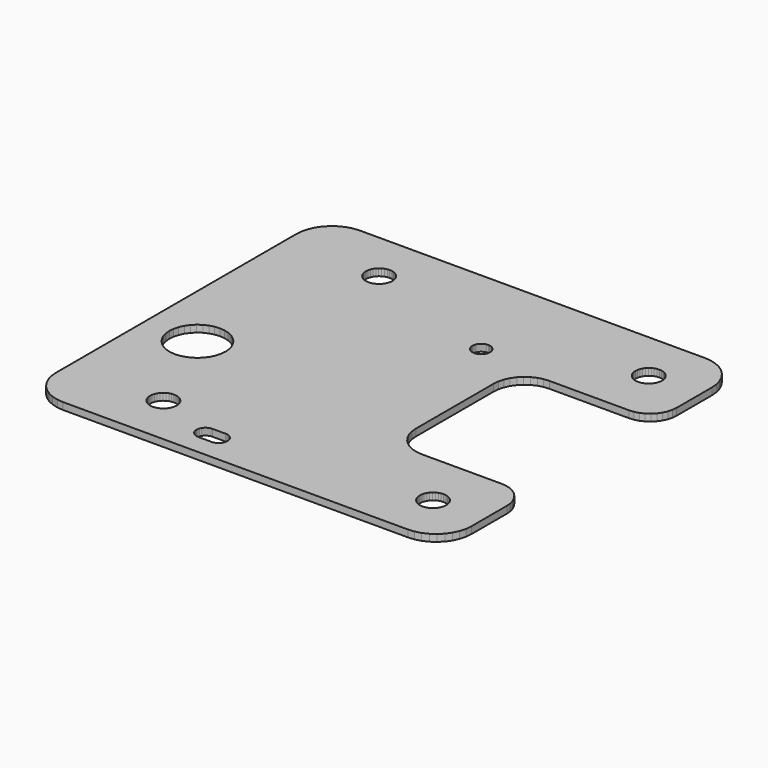
from build123d import *

# Parameters (mm, degrees)
F1_DEPTH = 2


with BuildPart() as f1:
    # F0 (on Top) → F1 (new body)
    with BuildSketch(Plane.XY):
        Polygon((59.077276, 46.654923), (58.328814, 48.26), (57.313017, 49.710721), (56.060721, 50.963017), (54.61, 51.978814), (53.004923, 52.727276), (51.294259, 53.185644), (49.53, 53.34), (48.5394, 53.34), (-49.53, 53.34), (-51.294259, 53.185644), (-53.004923, 52.727276), (-54.61, 51.978814), (-56.060721, 50.963017), (-57.313017, 49.710721), (-58.328814, 48.26), (-59.077276, 46.654923), (-59.535644, 44.944259), (-59.69, 43.18), (-59.69, 42.3164), (-59.69, -43.18), (-59.535644, -44.944259), (-59.077276, -46.654923), (-58.328814, -48.26), (-57.313017, -49.710721), (-56.060721, -50.963017), (-54.61, -51.978814), (-53.004923, -52.727276), (-51.294259, -53.185644), (-49.53, -53.34), (-48.5394, -53.34), (49.53, -53.34), (51.294259, -53.185644), (53.004923, -52.727276), (54.61, -51.978814), (56.060721, -50.963017), (57.313017, -49.710721), (58.328814, -48.26), (59.077276, -46.654923), (59.535644, -44.944259), (59.69, -43.18), (59.69, -30.607), (59.69, -30.48), (59.574227, -29.156812), (59.230463, -27.873808), (58.669123, -26.67), (57.90725, -25.581966), (56.968034, -24.64275), (55.88, -23.880877), (54.676192, -23.319537), (53.393188, -22.975773), (52.07, -22.86), (29.4386, -22.86), (29.21, -22.86), (27.666264, -22.724948), (26.169442, -22.323857), (24.765, -21.668969), (23.49561, -20.780146), (22.399854, -19.68439), (21.511031, -18.415), (20.856143, -17.010558), (20.455052, -15.513736), (20.32, -13.97), (20.32, 13.6906), (20.32, 13.97), (20.455052, 15.513736), (20.856143, 17.010558), (21.511031, 18.415), (22.399854, 19.68439), (23.49561, 20.780121), (24.765, 21.668969), (26.169442, 22.323857), (27.666264, 22.724948), (29.21, 22.86), (51.8414, 22.86), (52.07, 22.86), (53.393188, 22.975773), (54.676192, 23.319537), (55.88, 23.880877), (56.968034, 24.64275), (57.90725, 25.581966), (58.669123, 26.67), (59.230463, 27.873808), (59.574227, 29.156812), (59.69, 30.48), (59.69, 43.053), (59.69, 43.18), (59.535644, 44.944259), align=None)
        Polygon((-34.828582, -41.657448), (-35.298939, -41.188716), (-35.680752, -40.645436), (-35.962412, -40.044116), (-36.135386, -39.40302), (-36.194416, -38.741604), (-36.137698, -38.08001), (-35.966959, -37.43833), (-35.687356, -36.83602), (-35.307448, -36.291418), (-34.838716, -35.821061), (-34.295436, -35.439248), (-33.694116, -35.157588), (-33.05302, -34.984614), (-32.391629, -34.925584), (-31.73001, -34.982302), (-31.08833, -35.153041), (-30.48602, -35.432644), (-29.941418, -35.812552), (-29.471061, -36.281284), (-29.089248, -36.824564), (-28.807588, -37.425884), (-28.634588, -38.06698), (-28.575584, -38.728396), (-28.632302, -39.38999), (-28.803041, -40.03167), (-29.082644, -40.63398), (-29.462552, -41.178582), (-29.931284, -41.648939), (-30.474564, -42.030752), (-31.075884, -42.312412), (-31.71698, -42.485412), (-32.378396, -42.544416), (-33.03999, -42.487698), (-33.68167, -42.316959), (-34.28398, -42.037356), align=None, mode=Mode.SUBTRACT)
        Polygon((-17.439716, -43.815), (-17.185767, -43.452313), (-16.872687, -43.139258), (-16.51, -42.885284), (-16.108731, -42.698187), (-15.681071, -42.583583), (-15.24, -42.545), (-11.4681, -42.545), (-11.43, -42.545), (-10.988929, -42.583583), (-10.561269, -42.698187), (-10.16, -42.885284), (-9.797313, -43.139258), (-9.484233, -43.452313), (-9.230284, -43.815), (-9.043187, -44.216269), (-8.928583, -44.643929), (-8.89, -45.085), (-8.928583, -45.526071), (-9.043187, -45.953731), (-9.230284, -46.355), (-9.484233, -46.717687), (-9.797313, -47.030742), (-10.16, -47.284716), (-10.561269, -47.471813), (-10.988929, -47.586417), (-11.43, -47.625), (-15.2019, -47.625), (-15.24, -47.625), (-15.681071, -47.586417), (-16.108731, -47.471813), (-16.51, -47.284716), (-16.872687, -47.030742), (-17.185767, -46.717687), (-17.439716, -46.355), (-17.626813, -45.953731), (-17.741417, -45.526071), (-17.78, -45.085), (-17.741417, -44.643929), (-17.626813, -44.216269), align=None, mode=Mode.SUBTRACT)
        Polygon((-47.220962, -3.857777), (-45.863967, -3.491662), (-44.463995, -3.366719), (-43.063617, -3.486785), (-41.705352, -3.848202), (-40.430501, -4.439996), (-39.277747, -5.24416), (-38.282169, -6.23631), (-37.473992, -7.386244), (-36.877777, -8.659038), (-36.511662, -10.016033), (-36.386719, -11.416005), (-36.506785, -12.816383), (-36.868202, -14.174648), (-37.459996, -15.449499), (-38.26416, -16.602253), (-39.25631, -17.597831), (-40.406244, -18.406008), (-41.679038, -19.002223), (-43.036033, -19.368338), (-44.436005, -19.493281), (-45.836383, -19.373215), (-47.194648, -19.011798), (-48.469499, -18.420004), (-49.622253, -17.61584), (-50.617831, -16.62369), (-51.425983, -15.473756), (-52.022197, -14.200962), (-52.388338, -12.843967), (-52.513281, -11.443995), (-52.393215, -10.043617), (-52.031773, -8.685352), (-51.440004, -7.410501), (-50.635814, -6.257747), (-49.64369, -5.262169), (-48.493756, -4.453992), align=None, mode=Mode.SUBTRACT)
        Polygon((45.73999, -34.982302), (46.38167, -35.153041), (46.98398, -35.432644), (47.528582, -35.812552), (47.998939, -36.281284), (48.380752, -36.824564), (48.662412, -37.425884), (48.835412, -38.06698), (48.894416, -38.728396), (48.837698, -39.38999), (48.666959, -40.03167), (48.387356, -40.63398), (48.007448, -41.178582), (47.538716, -41.648939), (46.995436, -42.030752), (46.394116, -42.312412), (45.75302, -42.485412), (45.091604, -42.544416), (44.43001, -42.487698), (43.78833, -42.316959), (43.18602, -42.037356), (42.641418, -41.657448), (42.171061, -41.188716), (41.789248, -40.645436), (41.507588, -40.044116), (41.334614, -39.40302), (41.275584, -38.741604), (41.332302, -38.08001), (41.503041, -37.43833), (41.782644, -36.83602), (42.162552, -36.291418), (42.631284, -35.821061), (43.174564, -35.439248), (43.775884, -35.157588), (44.41698, -34.984614), (45.078396, -34.925584), align=None, mode=Mode.SUBTRACT)
        Polygon((-28.807588, 40.044116), (-28.634588, 39.40302), (-28.575584, 38.741629), (-28.632302, 38.08001), (-28.803041, 37.43833), (-29.082644, 36.83602), (-29.462552, 36.291418), (-29.931284, 35.821061), (-30.474564, 35.439248), (-31.075884, 35.157588), (-31.71698, 34.984588), (-32.378396, 34.925584), (-33.03999, 34.982302), (-33.68167, 35.153041), (-34.28398, 35.432644), (-34.828582, 35.812552), (-35.298939, 36.281284), (-35.680752, 36.824564), (-35.962412, 37.425884), (-36.135386, 38.06698), (-36.194416, 38.728396), (-36.137698, 39.38999), (-35.966959, 40.03167), (-35.687356, 40.63398), (-35.307448, 41.178582), (-34.838716, 41.648939), (-34.295436, 42.030752), (-33.694116, 42.312412), (-33.05302, 42.485386), (-32.391629, 42.544416), (-31.73001, 42.487698), (-31.08833, 42.316959), (-30.48602, 42.037356), (-29.941418, 41.657448), (-29.471061, 41.188716), (-29.089248, 40.645436), align=None, mode=Mode.SUBTRACT)
        Polygon((5.118202, 25.836651), (5.232044, 26.264464), (5.41843, 26.665987), (5.671718, 27.029054), (5.984189, 27.342617), (6.346368, 27.597151), (6.747256, 27.784958), (7.174662, 27.900274), (7.61558, 27.939619), (8.056651, 27.901798), (8.484464, 27.787956), (8.885987, 27.60157), (9.249054, 27.348282), (9.562617, 27.035811), (9.817176, 26.673632), (10.004958, 26.272744), (10.120274, 25.845338), (10.159619, 25.40442), (10.121798, 24.963349), (10.007956, 24.535536), (9.82157, 24.134013), (9.568282, 23.770946), (9.255811, 23.457383), (8.893632, 23.202849), (8.492744, 23.015042), (8.065338, 22.899726), (7.62442, 22.860381), (7.183349, 22.898202), (6.755536, 23.012044), (6.354013, 23.19843), (5.990946, 23.451718), (5.677383, 23.764189), (5.422824, 24.126368), (5.235067, 24.527256), (5.119726, 24.954662), (5.080381, 25.39558), align=None, mode=Mode.SUBTRACT)
        Polygon((44.423406, 42.487113), (45.085, 42.545), (45.746594, 42.487113), (46.388096, 42.315232), (46.99, 42.034562), (47.534017, 41.653638), (48.003638, 41.184017), (48.384562, 40.64), (48.665232, 40.038096), (48.837113, 39.396594), (48.895, 38.735), (48.837113, 38.073406), (48.665232, 37.431904), (48.384562, 36.83), (48.003638, 36.285983), (47.534017, 35.816362), (46.99, 35.435438), (46.388096, 35.154768), (45.746594, 34.982887), (45.085, 34.925), (44.423406, 34.982887), (43.781904, 35.154768), (43.18, 35.435438), (42.635983, 35.816362), (42.166362, 36.285983), (41.785438, 36.83), (41.504768, 37.431904), (41.332887, 38.073406), (41.275, 38.735), (41.332887, 39.396594), (41.504768, 40.038096), (41.785438, 40.64), (42.166362, 41.184017), (42.635983, 41.653638), (43.18, 42.034562), (43.781904, 42.315232), align=None, mode=Mode.SUBTRACT)
    extrude(amount=F1_DEPTH)


solid = f1.part
